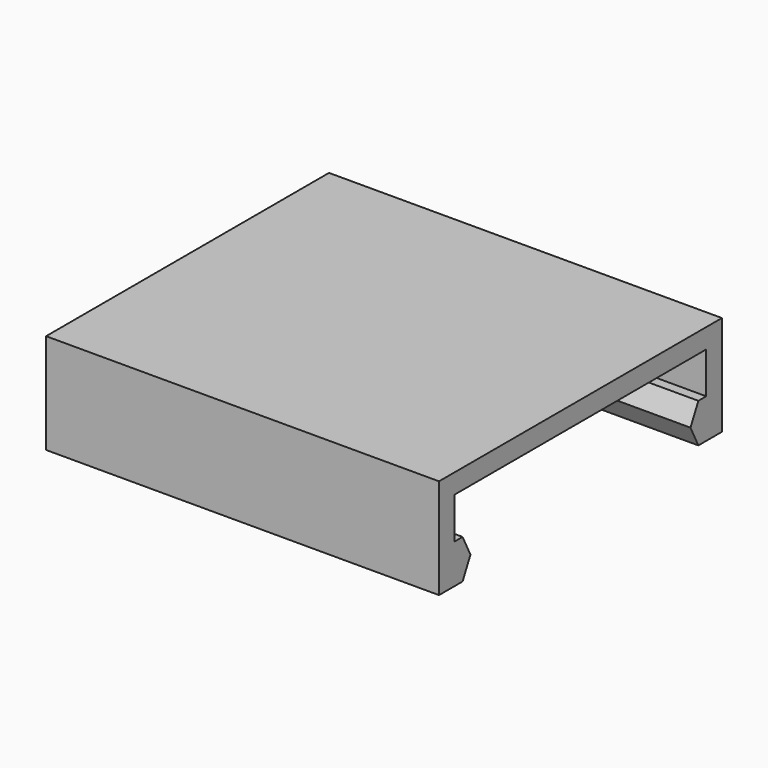
from build123d import *

# Parameters (mm, degrees)
EXTRUDE_DEPTH = 20


with BuildPart() as part:
    # Sketch → Extrude (new body)
    with BuildSketch(Plane.YZ):
        Polygon((-7.5, 7.9), (-7, 6.9), (-7.5, 5.9), (-9, 5.9), (-9, 11), (0, 11), (9, 11), (9, 5.9), (7.5, 5.9), (7, 6.9), (7.5, 7.9), (8, 7.9), (8, 10), (0, 10), (-8, 10), (-8, 7.9), align=None)
    extrude(amount=EXTRUDE_DEPTH)


solid = part.part
